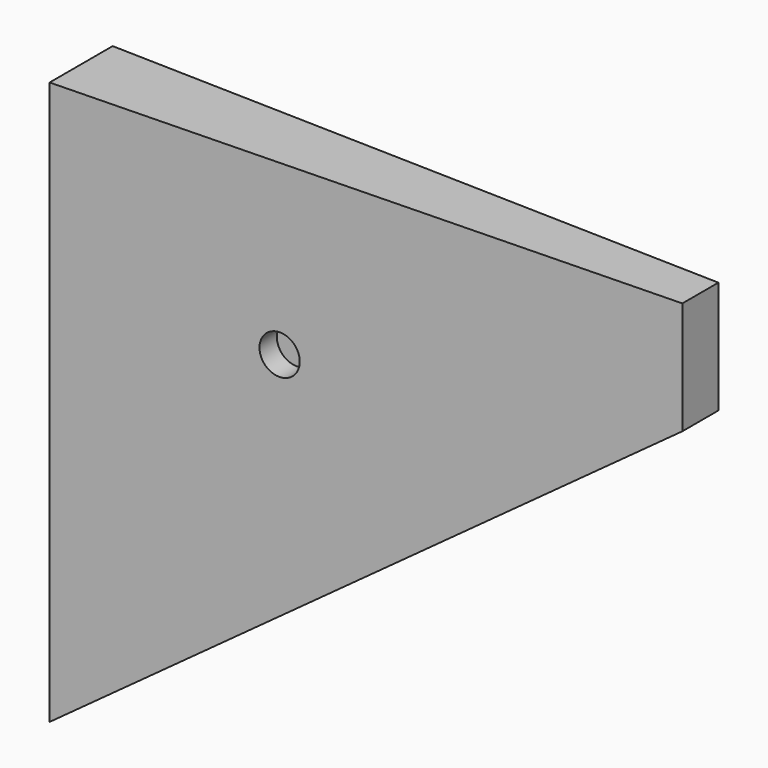
from build123d import *

# Parameters (mm, degrees)
F1_DEPTH = 7
F3_DEPTH = 50.001
F4_R     = 1.75
F5_DEPTH = 2


with BuildPart() as f1:
    # F0 (on Front) → F1 (new body)
    with BuildSketch(Plane.XZ):
        Polygon((27.5, 15), (27.5, 25), (-27.5, 25), (-27.5, -25), align=None)
    extrude(amount=F1_DEPTH)

    # F2 (on face) → F3 (cut, through all)
    with BuildSketch(Plane.XY.offset(25)):
        Polygon((27.5, 0), (-27.5, 0), (27.5, -1.5), align=None)
        Polygon((27.5, -5.5), (-27.5, -7), (27.5, -7), align=None)
    extrude(amount=-F3_DEPTH, mode=Mode.SUBTRACT)

    # F4 (on face) → F5 (cut)
    with BuildSketch(Plane(origin=(0.170328, -6.245355, 0), x_dir=(0.999628, 0.027263, 0), z_dir=(0.027263, -0.999628, 0))):
        with Locations((-7.680617, 10)):
            Circle(F4_R)
    extrude(amount=-F5_DEPTH, mode=Mode.SUBTRACT)


solid = f1.part
